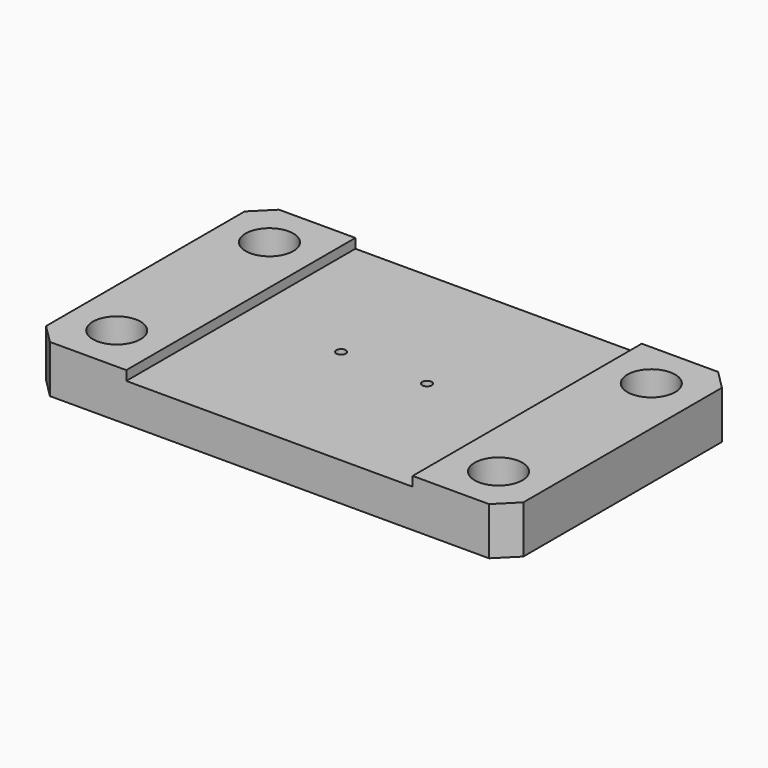
from build123d import *

# Parameters (mm, degrees)
F0_W     = 50
F0_H     = 30
F1_DEPTH = 5
F2_W     = 30
F2_H     = 30
F3_DEPTH = 1
F4_SIZE  = 2
F5_R     = 2.5
F6_DEPTH = 25
F7_R     = 0.5
F8_DEPTH = 25


with BuildPart() as f1:
    # F0 (on Top) → F1 (new body)
    with BuildSketch(Plane.XY):
        Rectangle(F0_W, F0_H)
    extrude(amount=F1_DEPTH)

    # F2 (on face) → F3 (cut)
    with BuildSketch(Plane.XY.offset(5)):
        Rectangle(F2_W, F2_H)
    extrude(amount=-F3_DEPTH, mode=Mode.SUBTRACT)

    # F4
    f4_edges = [f1.edges().sort_by_distance(p)[0] for p in [
        (-25, 15, 2.5),
        (-25, -15, 2.5),
        (25, -15, 2.5),
        (25, 15, 2.5),
    ]]
    chamfer(f4_edges, length=F4_SIZE)

    # F5 (on face) → F6 (cut)
    with BuildSketch(Plane.XY.offset(5)):
        with Locations((-20, 10)):
            Circle(F5_R)
        with Locations((-20, -10)):
            Circle(F5_R)
        with Locations((20, -10)):
            Circle(F5_R)
        with Locations((20, 10)):
            Circle(F5_R)
    extrude(amount=-F6_DEPTH, mode=Mode.SUBTRACT)

    # F7 (on face) → F8 (cut)
    with BuildSketch(Plane.XY.offset(4)):
        with Locations((-4.5, 0)):
            Circle(F7_R)
        with Locations((4.5, 0)):
            Circle(F7_R)
    extrude(amount=-F8_DEPTH, mode=Mode.SUBTRACT)


solid = f1.part
